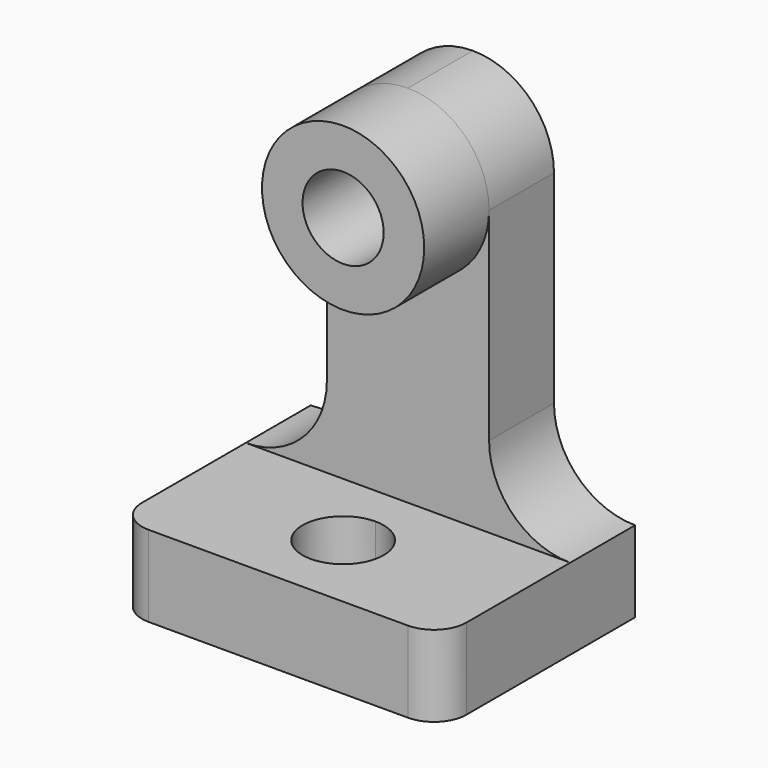
from build123d import *

# Parameters (mm, degrees)
F0_W      = 12.7
F0_H      = 12.7
F1_DEPTH  = 12.7
F3_DEPTH  = 25.4
F4_W      = 50.8
F4_H      = 12.7
F5_DEPTH  = 25.4
F6_R      = 5.08
F7_R      = 12.7
F7_R_2    = 6.35
F8_DEPTH  = 12.7
F9_DEPTH  = 25.4
F11_DEPTH = 25.4


with BuildPart() as f1:
    # F0 (on Front) → F1 (new body)
    with BuildSketch(Plane.XZ):
        with BuildLine():
            Line((0, 31.75), (0, 0))
            Line((0, 0), (12.7, 0))
            Line((12.7, 0), (12.7, 12.7))
            Line((12.7, 12.7), (12.7, 44.45))
            ThreePointArc((12.7, 44.45), (8.9802561211, 35.4697438789), (0, 31.75))
        make_face()
        Polygon((12.7, 0), (0, 0), (-12.7, 0), (-25.4, 0), (-25.4, -12.7), (0, -12.7), (25.4, -12.7), (25.4, 0), align=None)
        with BuildLine():
            Line((-12.7, 0), (0, 0))
            Line((0, 0), (0, 31.75))
            ThreePointArc((0, 31.75), (-8.9802561211, 35.4697438789), (-12.7, 44.45))
            Line((-12.7, 44.45), (-12.7, 12.7))
            Line((-12.7, 12.7), (-12.7, 0))
        make_face()
        with Locations((19.05, 6.35)):
            Rectangle(F0_W, F0_H)
        with Locations((-19.05, 6.35)):
            Rectangle(F0_W, F0_H)
        with BuildLine():
            ThreePointArc((-12.7, 44.45), (-8.9802561211, 35.4697438789), (0, 31.75))
            Line((0, 31.75), (0, 44.45))
            Line((0, 44.45), (-12.7, 44.45))
        make_face()
        with BuildLine():
            Line((0, 44.45), (0, 31.75))
            ThreePointArc((0, 31.75), (8.9802561211, 35.4697438789), (12.7, 44.45))
            Line((12.7, 44.45), (0, 44.45))
        make_face()
        with BuildLine():
            Line((-12.7, 44.45), (0, 44.45))
            Line((0, 44.45), (0, 57.15))
            ThreePointArc((0, 57.15), (-8.9802561211, 53.4302561211), (-12.7, 44.45))
        make_face()
        with BuildLine():
            Line((0, 57.15), (0, 44.45))
            Line((0, 44.45), (12.7, 44.45))
            ThreePointArc((12.7, 44.45), (8.9802561211, 53.4302561211), (0, 57.15))
        make_face()
    extrude(amount=F1_DEPTH)

    # F2 (on face) → F3 (cut)
    with BuildSketch(Plane(origin=(0, 0, 0), x_dir=(-1, 0, 0), z_dir=(0, 1, 0))):
        with BuildLine():
            Line((25.4, 12.7), (12.7, 12.7))
            ThreePointArc((12.7, 12.7), (16.4197438789, 3.7197438789), (25.4, 0))
            Line((25.4, 0), (25.4, 12.7))
        make_face()
        with BuildLine():
            ThreePointArc((-25.4, 0), (-16.4197438789, 3.7197438789), (-12.7, 12.7))
            Line((-12.7, 12.7), (-25.4, 12.7))
            Line((-25.4, 12.7), (-25.4, 0))
        make_face()
    extrude(amount=-F3_DEPTH, mode=Mode.SUBTRACT)

    # F4 (on face) → F5 (join)
    with BuildSketch(Plane.XZ.offset(12.7)):
        with Locations((0, -6.35)):
            Rectangle(F4_W, F4_H)
    extrude(amount=F5_DEPTH)

    # F6
    f6_edges = [f1.edges().sort_by_distance(p)[0] for p in [
        (25.4, -38.1, -6.35),
        (-25.4, -38.1, -6.35),
    ]]
    fillet(f6_edges, radius=F6_R)

    # F7 (on face) → F8 (join)
    with BuildSketch(Plane.XZ.offset(12.7)):
        with Locations((0, 44.45)):
            Circle(F7_R)
        with Locations((0, 44.45)):
            Circle(F7_R_2, mode=Mode.SUBTRACT)
    extrude(amount=F8_DEPTH)

    # F9 (cut): a face of the model
    f9_faces = [f1.faces().sort_by_distance(p)[0] for p in [
        (0, -12.7, 44.45),
    ]]
    extrude(f9_faces, amount=-F9_DEPTH, mode=Mode.SUBTRACT)

    # F10 (on face) → F11 (cut)
    with BuildSketch(Plane(origin=(0, 0, -12.7), x_dir=(1, 0, 0), z_dir=(0, 0, -1))):
        with BuildLine():
            ThreePointArc((0, 31.75), (-6.35, 25.4), (0, 19.05))
            Line((0, 19.05), (0, 25.4))
            Line((0, 25.4), (0, 31.75))
        make_face()
        with BuildLine():
            Line((0, 25.4), (0, 19.05))
            ThreePointArc((0, 19.05), (4.4901280605, 20.9098719395), (6.35, 25.4))
            ThreePointArc((6.35, 25.4), (4.4901280605, 29.8901280605), (0, 31.75))
            Line((0, 31.75), (0, 25.4))
        make_face()
    extrude(amount=-F11_DEPTH, mode=Mode.SUBTRACT)


solid = f1.part
